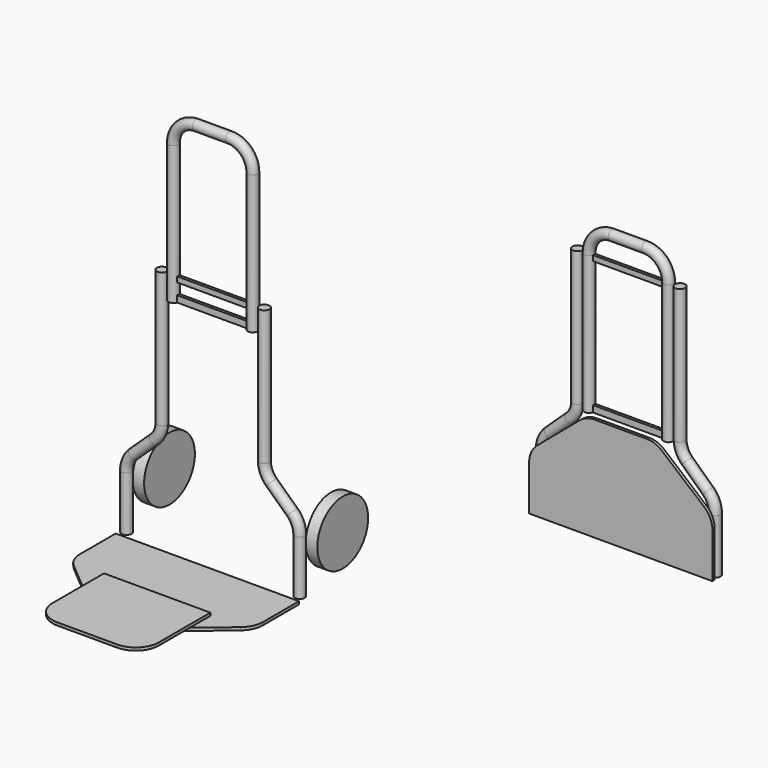
from build123d import *

# Parameters (mm, degrees)
F1_R      = 11.1125
F3_R      = 11.1125
F0_R      = 69.85
F6_DEPTH  = 12.7
F10_DEPTH = 6.35
F0_W      = 156.7229181528
F0_H      = 11.7263756275
F11_DEPTH = 3.175
F0_W_2    = 161.0562726855
F0_H_2    = 14.2946047708
F13_ANGLE = 90
F14_ANGLE = 90
F15_ANGLE = -90
F18_DEPTH = 6.35


with BuildPart() as f4:
    # F4: sweep along a path in F0
    with BuildLine(Plane.XZ) as f4_path:
        Line((-87.3125, 0), (-87.3125, 304.8))
        ThreePointArc((-87.3125, 304.8), (-72.4335244843, 340.7210244843), (-36.5125, 355.6))
        Line((-36.5125, 355.6), (36.5125, 355.6))
        ThreePointArc((36.5125, 355.6), (72.4335244843, 340.7210244843), (87.3125, 304.8))
        Line((87.3125, 304.8), (87.3125, 0))
    # F1 (on Top) → F4 (sweep)
    with BuildSketch(Plane.XY):
        with Locations((-87.3125, 0)):
            Circle(F1_R)
    sweep(path=f4_path.line)


with BuildPart() as f5:
    # F5: sweep along a path in F0
    with BuildLine(Plane.XZ) as f5_path:
        Line((-190.5, -228.6), (-190.5, -108.792509498))
        ThreePointArc((-190.5, -108.792509498), (-186.3203960493, -88.6138407559), (-174.4693436141, -71.7555989269))
        Line((-174.4693436141, -71.7555989269), (-128.7431563859, -28.8289754212))
        ThreePointArc((-128.7431563859, -28.8289754212), (-116.8921039507, -11.9707335923), (-112.7125, 8.2079351498))
        Line((-112.7125, 8.2079351498), (-112.7125, 304.9005568027))
    # F3 (on plane+point) → F5 (sweep)
    with BuildSketch(Plane.XY.offset(-228.6)):
        with Locations((-190.5, 0)):
            Circle(F3_R)
    sweep(path=f5_path.line)


with BuildPart() as f6:
    # F0 (on Front) → F6 (new body, symmetric)
    with BuildSketch(Plane.XZ):
        with Locations((-88.2636159658, -143.1593447924)):
            Circle(F0_R)
    extrude(amount=F6_DEPTH, both=True)


with BuildPart() as f7_1:
    # F7: instance of F6
    add(f6.part.mirror(Plane.YZ))


with BuildPart() as f7_2:
    # F7: instance of F5
    add(f5.part.mirror(Plane.YZ))


with BuildPart() as f10:
    # F9 (on offset) → F10 (new body)
    with BuildSketch(Plane.XZ.offset(15.875)):
        with BuildLine():
            Line((57.6153731299, 0), (-57.6153731299, 0))
            ThreePointArc((-57.6153731299, 0), (-75.0687028425, -3.0923351866), (-90.3971685553, -11.9928629156))
            Line((-90.3971685553, -11.9928629156), (-183.5942954254, -90.7198543102))
            ThreePointArc((-183.5942954254, -90.7198543102), (-196.8882810982, -108.1339458846), (-201.6125, -129.5269913946))
            Line((-201.6125, -129.5269913946), (-201.6125, -228.6))
            Line((-201.6125, -228.6), (-179.3875, -228.6))
            Line((-179.3875, -228.6), (179.3875, -228.6))
            Line((179.3875, -228.6), (201.6125, -228.6))
            Line((201.6125, -228.6), (201.6125, -129.5269913946))
            ThreePointArc((201.6125, -129.5269913946), (196.8882810982, -108.1339458846), (183.5942954254, -90.7198543102))
            Line((183.5942954254, -90.7198543102), (90.3971685553, -11.9928629156))
            ThreePointArc((90.3971685553, -11.9928629156), (75.0687028425, -3.0923351866), (57.6153731299, 0))
        make_face()
    extrude(amount=F10_DEPTH)


with BuildPart() as f11:
    # F0 (on Front) → F11 (new body, symmetric)
    with BuildSketch(Plane.XZ):
        with Locations((1.374438405, 298.9368121862)):
            Rectangle(F0_W, F0_H)
    extrude(amount=F11_DEPTH, both=True)


with BuildPart() as f11b:
    # F0 (on Front) → F11, piece 2 (new body, symmetric)
    with BuildSketch(Plane.XZ):
        with Locations((-0.7922388613, 7.1473023854)):
            Rectangle(F0_W_2, F0_H_2)
    extrude(amount=F11_DEPTH, both=True)


with BuildPart() as f12_1:
    # F12: copy of F7_1
    add(f7_1.part.moved(Location((508, 508, 0))))


with BuildPart() as f12_2:
    # F12: copy of F6
    add(f6.part.moved(Location((508, 508, 0))))


with BuildPart() as f12_3:
    # F12: copy of F4
    add(f4.part.moved(Location((508, 508, 0))))


with BuildPart() as f12_4:
    # F12: copy of F10
    add(f10.part.moved(Location((508, 508, 0))))


with BuildPart() as f12_5:
    # F12: copy of F7_2
    add(f7_2.part.moved(Location((508, 508, 0))))


with BuildPart() as f12_6:
    # F12: copy of F5
    add(f5.part.moved(Location((508, 508, 0))))


with BuildPart() as f12_7:
    # F12: copy of F11
    add(f11.part.moved(Location((508, 508, 0))))


with BuildPart() as f12_8:
    # F12: copy of F11b
    add(f11b.part.moved(Location((508, 508, 0))))


with BuildPart() as f10_1:
    # F13: moved
    add(f10.part.rotate(Axis((0, -15.875, -228.6), (1, 0, 0)), F13_ANGLE))


with BuildPart() as f6_1:
    # F14: moved
    add(f6.part.rotate(Axis((-190.5, 0, -228.6), (0, 0, 1)), F14_ANGLE))


with BuildPart() as f7_1_1:
    # F15: moved
    add(f7_1.part.rotate(Axis((190.5, 0, -228.6), (0, 0, 1)), F15_ANGLE))


with BuildPart() as f4_1:
    # F16: moved
    add(f4.part.moved(Location((0, 0, 254))))


with BuildPart() as f11b_1:
    # F16: moved
    add(f11b.part.moved(Location((0, 0, 254))))


with BuildPart() as f18:
    # F17 (on face) → F18 (new body)
    with BuildSketch(Plane.XY.offset(-228.6)):
        with BuildLine():
            ThreePointArc((-57.6153731299, -244.475), (-75.0687028425, -241.3826648134), (-90.3971685553, -232.4821370844))
            Line((-90.3971685553, -232.4821370844), (-117.0907519988, -209.9330995269))
            Line((-117.0907519988, -209.9330995269), (-117.0907519988, -295.275))
            ThreePointArc((-117.0907519988, -295.275), (-102.211776483, -331.1960244843), (-66.2907519988, -346.075))
            Line((-66.2907519988, -346.075), (65.992820394, -346.075))
            ThreePointArc((65.992820394, -346.075), (101.9138448783, -331.1960244843), (116.792820394, -295.275))
            Line((116.792820394, -295.275), (116.792820394, -210.1847731532))
            Line((116.792820394, -210.1847731532), (90.3971685553, -232.4821370844))
            ThreePointArc((90.3971685553, -232.4821370844), (75.0687028425, -241.3826648134), (57.6153731299, -244.475))
            Line((57.6153731299, -244.475), (-57.6153731299, -244.475))
        make_face()
        with BuildLine():
            Line((-117.0907519988, -209.9330995269), (-90.3971685553, -232.4821370844))
            ThreePointArc((-90.3971685553, -232.4821370844), (-75.0687028425, -241.3826648134), (-57.6153731299, -244.475))
            Line((-57.6153731299, -244.475), (57.6153731299, -244.475))
            ThreePointArc((57.6153731299, -244.475), (75.0687028425, -241.3826648134), (90.3971685553, -232.4821370844))
            Line((90.3971685553, -232.4821370844), (116.792820394, -210.1847731532))
            Line((116.792820394, -210.1847731532), (116.792820394, -153.7551456898))
            Line((116.792820394, -153.7551456898), (-117.0907519988, -153.7551456898))
            Line((-117.0907519988, -153.7551456898), (-117.0907519988, -209.9330995269))
        make_face()
    extrude(amount=F18_DEPTH)


solid = Compound([f5.part, f7_2.part, f11.part, f12_1.part, f12_2.part, f12_3.part, f12_4.part, f12_5.part, f12_6.part, f12_7.part, f12_8.part, f10_1.part, f6_1.part, f7_1_1.part, f4_1.part, f11b_1.part, f18.part])
